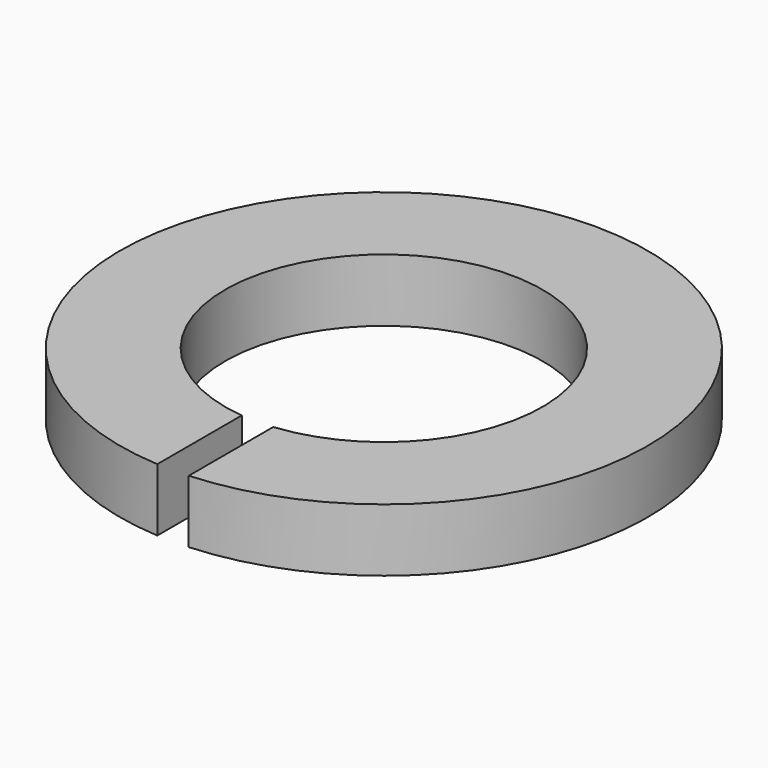
from build123d import *

# Parameters (mm, degrees)
PAD_DEPTH = 2


with BuildPart() as part:
    # Sketch → Pad (new body, symmetric)
    with BuildSketch(Plane.XY):
        with BuildLine():
            ThreePointArc((1, -10.050373), (0, 10.1), (-1, -10.050373))
            Line((-1, -16.770212), (-1, -10.050373))
            ThreePointArc((1, -16.770212), (0, 16.8), (-1, -16.770212))
            Line((1, -10.050373), (1, -16.770212))
        make_face()
    extrude(amount=PAD_DEPTH, both=True)


solid = part.part
